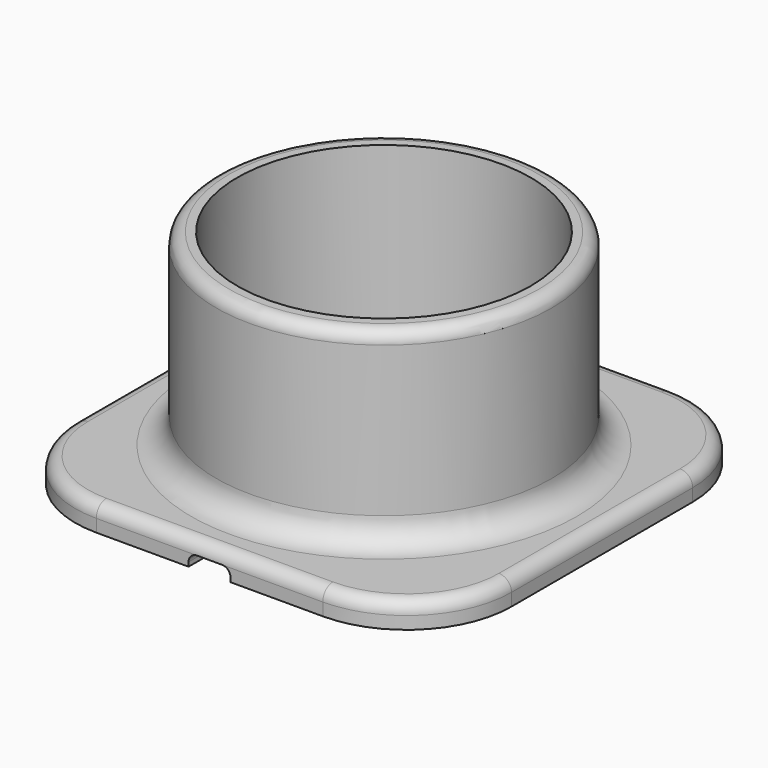
from build123d import *

# Parameters (mm, degrees)
F0_W     = 52
F0_H     = 52
F0_R     = 20
F1_DEPTH = 3
F0_R_2   = 17.5
F0_R_3   = 2.5
F2_DEPTH = 25.4
F3_DEPTH = 1.55
F4_R     = 12.5
F5_R     = 1.5
F6_R     = 3
F7_W     = 5
F7_H     = 1.5
F8_DEPTH = 25.4
F9_R     = 1


with BuildPart() as f1:
    # F0 (on Top) → F1 (new body)
    with BuildSketch(Plane.XY):
        Rectangle(F0_W, F0_H)
        Circle(F0_R, mode=Mode.SUBTRACT)
    extrude(amount=F1_DEPTH)



with BuildPart() as f1b:
    # F0 (on Top) → F1, piece 2 (new body)
    with BuildSketch(Plane.XY):
        Circle(F0_R_2)
        Circle(F0_R_3, mode=Mode.SUBTRACT)
    extrude(amount=F1_DEPTH)


with BuildPart() as f1_1:
    add(f1.part)

    add(f1b.part)  # F2 merges F1b
    # F0 (on Top) → F2 (join)
    with BuildSketch(Plane.XY):
        Circle(F0_R)
        Circle(F0_R_2, mode=Mode.SUBTRACT)
    extrude(amount=F2_DEPTH)

    # F0 (on Top) → F3 (cut)
    with BuildSketch(Plane.XY):
        Circle(F0_R_2)
        Circle(F0_R_3, mode=Mode.SUBTRACT)
    extrude(amount=F3_DEPTH, mode=Mode.SUBTRACT)

    # F4
    f4_edges = [f1_1.edges().sort_by_distance(p)[0] for p in [
        (-26, 26, 1.5),
        (26, 26, 1.5),
        (26, -26, 1.5),
        (-26, -26, 1.5),
    ]]
    fillet(f4_edges, radius=F4_R)

    # F5
    f5_edges = [f1_1.edges().sort_by_distance(p)[0] for p in [
        (-20, 0, 25.4),
        (0, -26, 3),
    ]]
    fillet(f5_edges, radius=F5_R)

    # F6
    f6_edges = [f1_1.edges().sort_by_distance(p)[0] for p in [
        (-20, 0, 3),
    ]]
    fillet(f6_edges, radius=F6_R)

    # F7 (on face) → F8 (cut)
    with BuildSketch(Plane.XZ.offset(26)):
        with Locations((0, 0.75)):
            Rectangle(F7_W, F7_H)
    extrude(amount=-F8_DEPTH, mode=Mode.SUBTRACT)

    # F9
    f9_edges = [f1_1.edges().sort_by_distance(p)[0] for p in [
        (-2.5, -21.660254, 1.5),
        (2.5, -21.660254, 1.5),
    ]]
    fillet(f9_edges, radius=F9_R)


solid = f1_1.part
